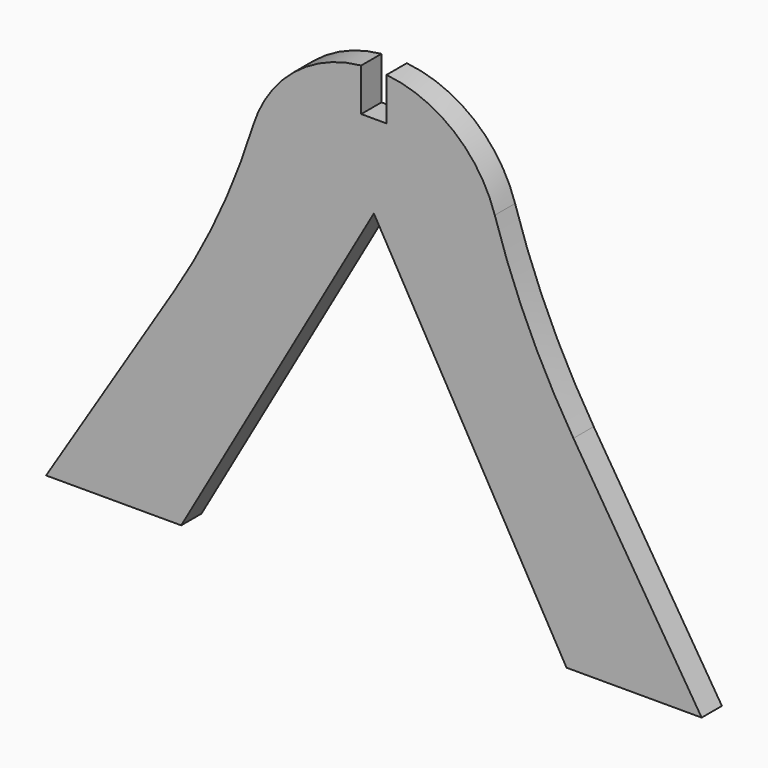
from build123d import *

# Parameters (mm, degrees)
F1_DEPTH = 3
F2_R     = 86.474074


with BuildPart() as f1:
    # F0 (on Front) → F1 (new body)
    with BuildSketch(Plane.XZ):
        with BuildLine():
            Line((38.813758, -39.944117), (14.887724, -1.831849))
            ThreePointArc((14.887724, -1.831849), (11.719036, 9.362916), (1.5, 14.924812))
            Line((1.5, 14.924812), (1.5, 9.863055))
            Line((1.5, 9.863055), (-1.5, 9.863055))
            Line((-1.5, 9.863055), (-1.5, 14.924812))
            ThreePointArc((-1.5, 14.924812), (-11.719036, 9.362916), (-14.887724, -1.831849))
            Line((-14.887724, -1.831849), (-38.813758, -39.944117))
            Line((-38.813758, -39.944117), (-22.813758, -39.944117))
            Line((-22.813758, -39.944117), (0, 0))
            Line((0, 0), (22.813758, -39.944117))
            Line((22.813758, -39.944117), (38.813758, -39.944117))
        make_face()
    extrude(amount=F1_DEPTH)

    # F2
    f2_edges = [f1.edges().sort_by_distance(p)[0] for p in [
        (14.887724, -1.5, -1.831849),
        (-14.887724, -1.5, -1.831849),
    ]]
    fillet(f2_edges, radius=F2_R)


solid = f1.part
